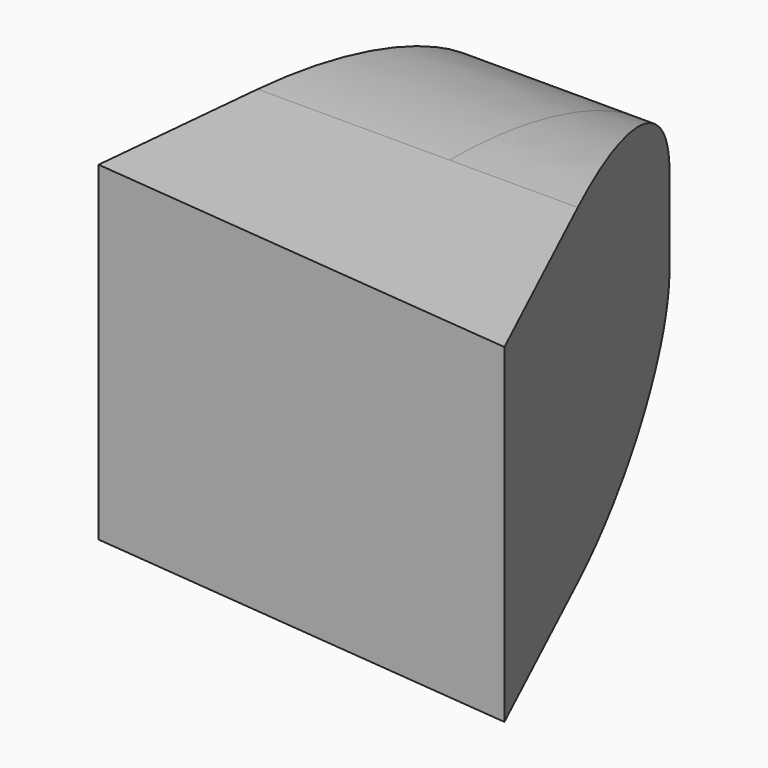
from build123d import *

# Parameters (mm, degrees)
F1_DEPTH      = 15
F1_DEPTH_BACK = 15
F3_DEPTH      = 19.001
F3_DEPTH_BACK = 21.001


with BuildPart() as f1:
    # F0 (on Top) → F1 (new body, two sides)
    with BuildSketch(Plane.XY) as f1_sk:
        Polygon((21, -25), (0, 20), (-15, 20), (-19, -21.1077940659), align=None)
    extrude(amount=F1_DEPTH)
    extrude(f1_sk.sketch, amount=-F1_DEPTH_BACK)

    # F2 (on Right) → F3 (cut, two sides)
    with BuildSketch(Plane.YZ) as f3_sk:
        with BuildLine():
            add(Edge.make_bspline(
                [(20, 4), (20, 15), (-5, 15)],
                knots=[0, 0, 0, 1.5707963268, 1.5707963268, 1.5707963268], degree=2, weights=[1, 0.7071067812, 1]))
            Line((20, 4), (20, 15))
            Line((20, 15), (-5, 15))
        make_face()
        with BuildLine():
            add(Edge.make_bspline(
                [(-5, -15), (20, -15), (20, -4)],
                knots=[4.7123889804, 4.7123889804, 4.7123889804, 6.2831853072, 6.2831853072, 6.2831853072], degree=2, weights=[1, 0.7071067812, 1]))
            Line((-5, -15), (20, -15))
            Line((20, -15), (20, -4))
        make_face()
    extrude(amount=-F3_DEPTH, mode=Mode.SUBTRACT)
    extrude(f3_sk.sketch, amount=F3_DEPTH_BACK, mode=Mode.SUBTRACT)


solid = f1.part
